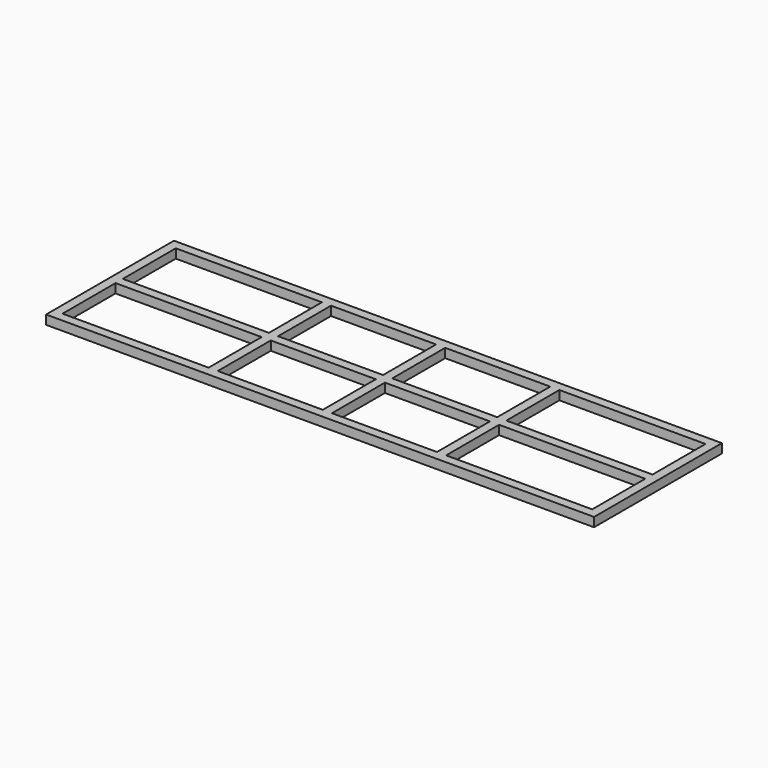
from build123d import *

# Parameters (mm, degrees)
F0_W     = 2400
F0_H     = 700
F0_W_2   = 640
F0_H_2   = 40
F0_W_3   = 40
F0_H_3   = 290
F0_W_4   = 460
F1_DEPTH = 40


with BuildPart() as f1:
    # F0 (on Top) → F1 (new body)
    with BuildSketch(Plane.XY):
        Rectangle(F0_W, F0_H)
        Polygon((-1160, 20), (-1160, 310), (-520, 310), (-480, 310), (-20, 310), (20, 310), (480, 310), (520, 310), (1160, 310), (1160, 20), (1160, -20), (1160, -310), (520, -310), (480, -310), (20, -310), (-20, -310), (-480, -310), (-520, -310), (-1160, -310), (-1160, -20), align=None, mode=Mode.SUBTRACT)
        with Locations((-840, 0)):
            Rectangle(F0_W_2, F0_H_2)
        with Locations((-500, 0)):
            Rectangle(F0_W_3, F0_H_2)
        with Locations((-500, 165)):
            Rectangle(F0_W_3, F0_H_3)
        with Locations((-500, -165)):
            Rectangle(F0_W_3, F0_H_3)
        with Locations((-250, 0)):
            Rectangle(F0_W_4, F0_H_2)
        with Locations((0, 165)):
            Rectangle(F0_W_3, F0_H_3)
        with Locations((0, -165)):
            Rectangle(F0_W_3, F0_H_3)
        with Locations((500, 165)):
            Rectangle(F0_W_3, F0_H_3)
        with Locations((500, -165)):
            Rectangle(F0_W_3, F0_H_3)
        with Locations((840, 0)):
            Rectangle(F0_W_2, F0_H_2)
        with Locations((250, 0)):
            Rectangle(F0_W_4, F0_H_2)
        with Locations((500, 0)):
            Rectangle(F0_W_3, F0_H_2)
        Rectangle(F0_W_3, F0_H_2)
    extrude(amount=F1_DEPTH)


solid = f1.part
